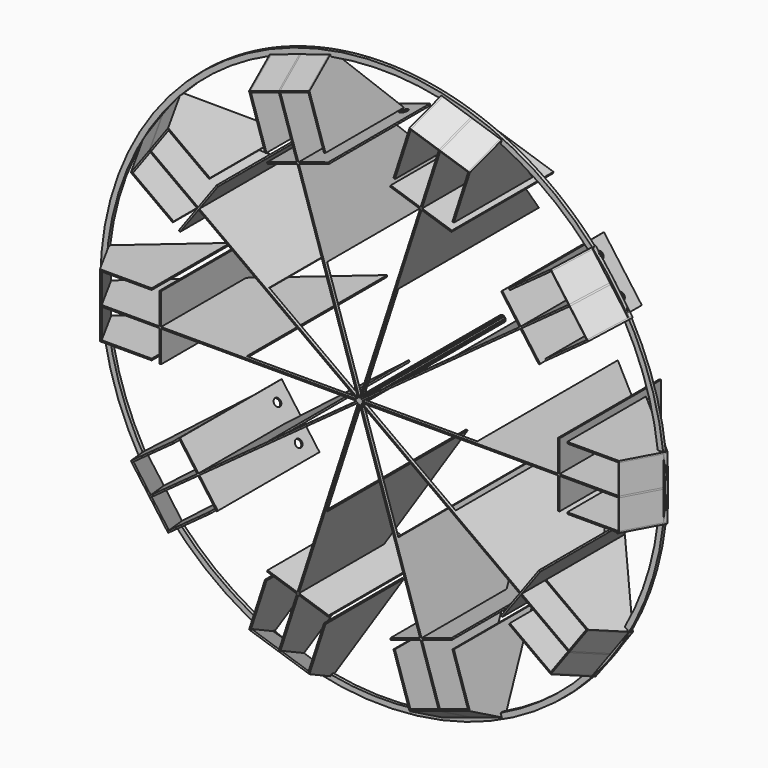
from build123d import *

# Parameters (mm, degrees)
F0_W      = 2
F0_H      = 112
F1_DEPTH  = 0.5
F2_W      = 6.2932344769
F2_H      = 5.0134444292
F3_DEPTH  = 19.25
F5_DEPTH  = 1
F7_DEPTH  = 1
F10_W     = 1
F10_H     = 81
F11_DEPTH = 20.5
F12_R     = 2.5
F13_DEPTH = 25
F14_COUNT = 10
F14_ANGLE = 324
F15_R     = 180
F15_R_2   = 176.5380083769
F16_DEPTH = 2


with BuildPart() as f1:
    # F0 (on Top) → F1 (new body, symmetric)
    with BuildSketch(Plane.XY):
        Polygon((75.5, 39.5), (75.5, 0), (180, 0), (134.6401098901, 39.5), align=None)
        Polygon((180, 0), (75.5, 0), (75.5, -21), (75.5, -23), (167.5, -23), align=None)
        Polygon((75.5, 91), (75.5, 39.5), (134.6401098901, 39.5), align=None)
        Polygon((75.5, -23), (75.5, -21), (2, -21), (0, -21), (0, -23), align=None)
        with Locations((1, 35)):
            Rectangle(F0_W, F0_H)
    extrude(amount=F1_DEPTH, both=True)



with BuildPart() as f3:
    # F2 (on Top) → F3 (new body, symmetric)
    with BuildSketch(Plane.XY):
        with Locations((18.1466172385, 2.5067222146)):
            Rectangle(F2_W, F2_H)
    extrude(amount=F3_DEPTH, both=True)


with BuildPart() as f5:
    # F4 (on face) → F5 (new body)
    with BuildSketch(Plane.XY.offset(19.25)):
        Polygon((134.6401098901, 39.5), (134.5, 39.5), (134.5, -23), (167.5, -23), (180, 0), align=None)
    extrude(amount=F5_DEPTH)


with BuildPart() as f1_1:
    add(f1.part)

    add(f5.part)  # F7 merges F5
    # F6 (on face) → F7 (join)
    with BuildSketch(Plane(origin=(138.9565851879, -75.5198832543, 0), x_dir=(0.4775133204, 0.8786245096, 0), z_dir=(0.8786245096, -0.4775133204, 0))):
        Polygon((59.7751174502, 20.25), (59.7751174502, 19.25), (59.7751174502, 0), (86.2599685788, 0), (85.9523976756, 20.25), align=None)
    extrude(amount=-F7_DEPTH)

    # F9: F1 across plane


with BuildPart() as f1_2:
    add(f1_1.part)
    add(f1_1.part.mirror(Plane.XY))

    # F10 (on Top) → F11 (join, symmetric)
    with BuildSketch(Plane.XY):
        with Locations((129, 17.5)):
            Rectangle(F10_W, F10_H)
    extrude(amount=F11_DEPTH, both=True)

    # F12 (on face) → F13 (cut)
    with BuildSketch(Plane.YZ.offset(129.5)):
        with Locations((48, -11.5)):
            Circle(F12_R)
        with Locations((48, 11.5)):
            Circle(F12_R)
    extrude(amount=-F13_DEPTH, mode=Mode.SUBTRACT)

    # F14: F1 ×10 about axis
    f14_axis = Axis((2, 35, 0), (0, -1, 0))


with BuildPart() as f1_3:
    add(f1_2.part)
    for i in range(1, F14_COUNT):
        add(f1_2.part.rotate(f14_axis, i * F14_ANGLE / (F14_COUNT - 1)))

    # F15 (on Front) → F16 (join)
    with BuildSketch(Plane.XZ):
        Circle(F15_R)
        Circle(F15_R_2, mode=Mode.SUBTRACT)
    extrude(amount=F16_DEPTH)


solid = f1_3.part
